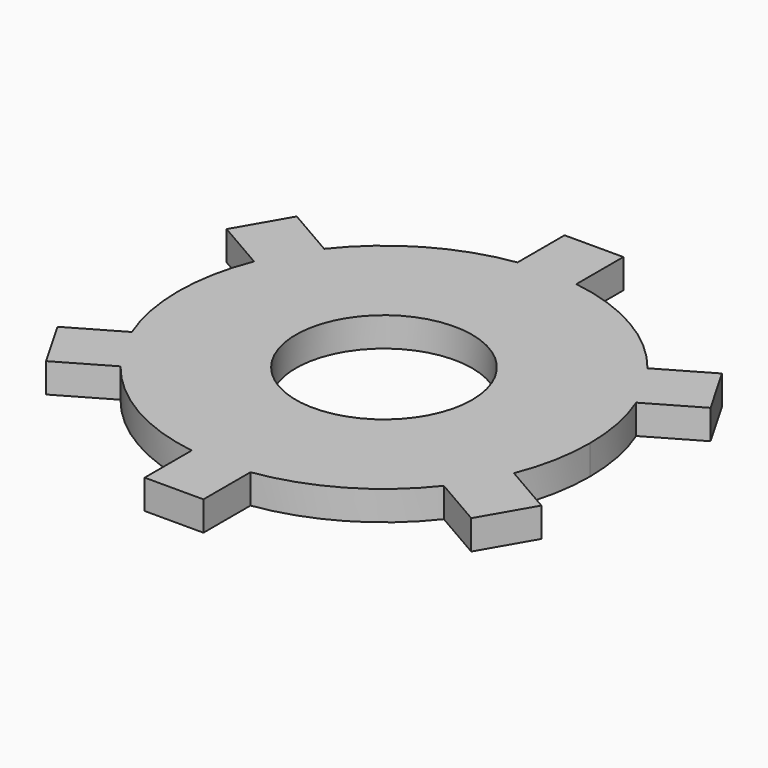
from build123d import *

# Parameters (mm, degrees)
F0_R     = 3.81
F1_DEPTH = 1.27


with BuildPart() as f1:
    # F0 (on Top) → F1 (new body)
    with BuildSketch(Plane.XY):
        with BuildLine():
            ThreePointArc((8.255, -3.299557), (8.729807, -1.680052), (8.89, 0))
            ThreePointArc((8.89, 0), (8.729807, 1.680052), (8.255, 3.299557))
            ThreePointArc((8.255, 3.299557), (7.698966, 4.445), (6.985, 5.499261))
            ThreePointArc((6.985, 5.499261), (4.445, 7.698966), (1.27, 8.798818))
            ThreePointArc((1.27, 8.798818), (0, 8.89), (-1.27, 8.798818))
            ThreePointArc((-1.27, 8.798818), (-4.445, 7.698966), (-6.985, 5.499261))
            ThreePointArc((-6.985, 5.499261), (-7.698966, 4.445), (-8.255, 3.299557))
            ThreePointArc((-8.255, 3.299557), (-8.89, 0), (-8.255, -3.299557))
            ThreePointArc((-8.255, -3.299557), (-7.698966, -4.445), (-6.985, -5.499261))
            ThreePointArc((-6.985, -5.499261), (-4.445, -7.698966), (-1.27, -8.798818))
            ThreePointArc((-1.27, -8.798818), (0, -8.89), (1.27, -8.798818))
            ThreePointArc((1.27, -8.798818), (4.445, -7.698966), (6.985, -5.499261))
            ThreePointArc((6.985, -5.499261), (7.698966, -4.445), (8.255, -3.299557))
        make_face()
        Circle(F0_R, mode=Mode.SUBTRACT)
        with BuildLine():
            ThreePointArc((-1.27, 8.798818), (0, 8.89), (1.27, 8.798818))
            Line((1.27, 8.798818), (1.27, 11.338818))
            Line((1.27, 11.338818), (-1.27, 11.338818))
            Line((-1.27, 11.338818), (-1.27, 8.798818))
        make_face()
        with BuildLine():
            ThreePointArc((6.985, 5.499261), (7.698966, 4.445), (8.255, 3.299557))
            Line((8.255, 3.299557), (10.454705, 4.569557))
            Line((10.454705, 4.569557), (9.184705, 6.769261))
            Line((9.184705, 6.769261), (6.985, 5.499261))
        make_face()
        with BuildLine():
            Line((10.454705, -4.569557), (8.255, -3.299557))
            ThreePointArc((8.255, -3.299557), (7.698966, -4.445), (6.985, -5.499261))
            Line((6.985, -5.499261), (9.184705, -6.769261))
            Line((9.184705, -6.769261), (10.454705, -4.569557))
        make_face()
        with BuildLine():
            Line((1.27, -11.338818), (1.27, -8.798818))
            ThreePointArc((1.27, -8.798818), (0, -8.89), (-1.27, -8.798818))
            Line((-1.27, -8.798818), (-1.27, -11.338818))
            Line((-1.27, -11.338818), (1.27, -11.338818))
        make_face()
        with BuildLine():
            Line((-9.184705, -6.769261), (-6.985, -5.499261))
            ThreePointArc((-6.985, -5.499261), (-7.698966, -4.445), (-8.255, -3.299557))
            Line((-8.255, -3.299557), (-10.454705, -4.569557))
            Line((-10.454705, -4.569557), (-9.184705, -6.769261))
        make_face()
        with BuildLine():
            ThreePointArc((-8.255, 3.299557), (-7.698966, 4.445), (-6.985, 5.499261))
            Line((-6.985, 5.499261), (-9.184705, 6.769261))
            Line((-9.184705, 6.769261), (-10.454705, 4.569557))
            Line((-10.454705, 4.569557), (-8.255, 3.299557))
        make_face()
    extrude(amount=F1_DEPTH)


solid = f1.part
